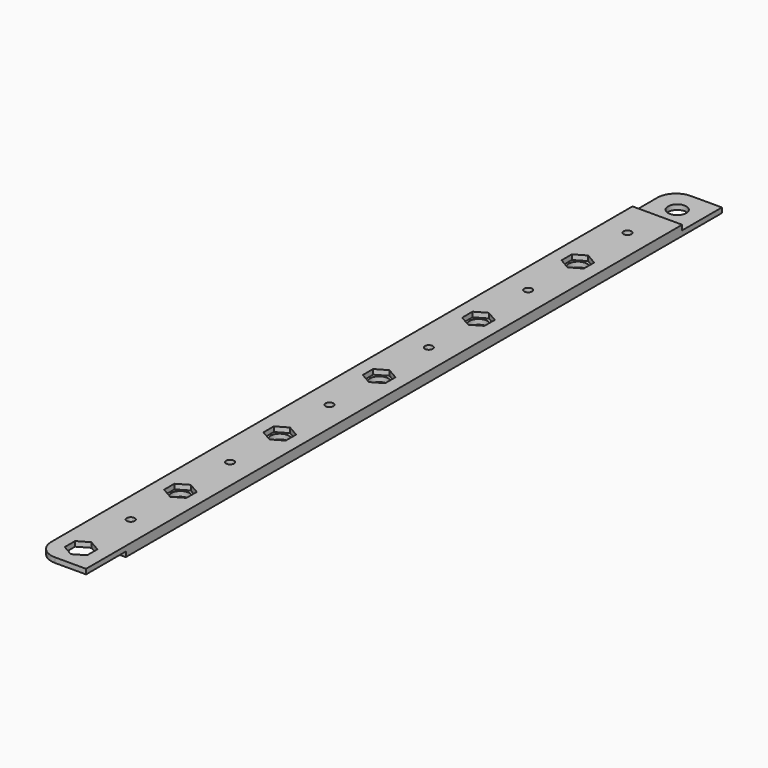
from build123d import *

# Parameters (mm, degrees)
F0_W     = 20
F0_H     = 280
F0_R     = 1.5875
F0_R_2   = 3.675
F1_DEPTH = 2
F2_DEPTH = 2


with BuildPart() as f1:
    # F0 (on Top) → F1 (new body)
    with BuildSketch(Plane.XY):
        Rectangle(F0_W, F0_H)
        with Locations((0, -125)):
            Circle(F0_R, mode=Mode.SUBTRACT)
        Polygon((0, -105.196152), (-4.5, -102.598076), (-4.5, -97.401924), (0, -94.803848), (4.5, -97.401924), (4.5, -102.598076), align=None, mode=Mode.SUBTRACT)
        with Locations((0, -75)):
            Circle(F0_R, mode=Mode.SUBTRACT)
        Polygon((0, -55.196152), (-4.5, -52.598076), (-4.5, -47.401924), (0, -44.803848), (4.5, -47.401924), (4.5, -52.598076), align=None, mode=Mode.SUBTRACT)
        with Locations((0, -25)):
            Circle(F0_R, mode=Mode.SUBTRACT)
        Polygon((0, -5.196152), (-4.5, -2.598076), (-4.5, 2.598076), (0, 5.196152), (4.5, 2.598076), (4.5, -2.598076), align=None, mode=Mode.SUBTRACT)
        with Locations((0, 25)):
            Circle(F0_R, mode=Mode.SUBTRACT)
        Polygon((0, 44.803848), (-4.5, 47.401924), (-4.5, 52.598076), (0, 55.196152), (4.5, 52.598076), (4.5, 47.401924), align=None, mode=Mode.SUBTRACT)
        with Locations((0, 75)):
            Circle(F0_R, mode=Mode.SUBTRACT)
        Polygon((0, 94.803848), (-4.5, 97.401924), (-4.5, 102.598076), (0, 105.196152), (4.5, 102.598076), (4.5, 97.401924), align=None, mode=Mode.SUBTRACT)
        with Locations((0, 125)):
            Circle(F0_R, mode=Mode.SUBTRACT)
        with BuildLine():
            Line((10, 140), (10, 160))
            Line((10, 160), (-2.5, 160))
            ThreePointArc((-2.5, 160), (-7.803301, 157.803301), (-10, 152.5))
            Line((-10, 152.5), (-10, 140))
            Line((-10, 140), (10, 140))
        make_face()
        Polygon((0, 144.803848), (-4.5, 147.401924), (-4.5, 152.598076), (0, 155.196152), (4.5, 152.598076), (4.5, 147.401924), align=None, mode=Mode.SUBTRACT)
        Polygon((-4.5, -97.401924), (-4.5, -102.598076), (0, -105.196152), (4.5, -102.598076), (4.5, -97.401924), (0, -94.803848), align=None)
        with Locations((0, -100)):
            Circle(F0_R_2, mode=Mode.SUBTRACT)
        Polygon((-4.5, -47.401924), (-4.5, -52.598076), (0, -55.196152), (4.5, -52.598076), (4.5, -47.401924), (0, -44.803848), align=None)
        with Locations((0, -50)):
            Circle(F0_R_2, mode=Mode.SUBTRACT)
        Polygon((-4.5, 2.598076), (-4.5, -2.598076), (0, -5.196152), (4.5, -2.598076), (4.5, 2.598076), (0, 5.196152), align=None)
        Circle(F0_R_2, mode=Mode.SUBTRACT)
        Polygon((-4.5, 52.598076), (-4.5, 47.401924), (0, 44.803848), (4.5, 47.401924), (4.5, 52.598076), (0, 55.196152), align=None)
        with Locations((0, 50)):
            Circle(F0_R_2, mode=Mode.SUBTRACT)
        Polygon((-4.5, 102.598076), (-4.5, 97.401924), (0, 94.803848), (4.5, 97.401924), (4.5, 102.598076), (0, 105.196152), align=None)
        with Locations((0, 100)):
            Circle(F0_R_2, mode=Mode.SUBTRACT)
        Polygon((-4.5, 152.598076), (-4.5, 147.401924), (0, 144.803848), (4.5, 147.401924), (4.5, 152.598076), (0, 155.196152), align=None)
        with Locations((0, 150)):
            Circle(F0_R_2, mode=Mode.SUBTRACT)
    extrude(amount=-F1_DEPTH)

    # F0 (on Top) → F2 (join)
    with BuildSketch(Plane.XY):
        Rectangle(F0_W, F0_H)
        with Locations((0, -125)):
            Circle(F0_R, mode=Mode.SUBTRACT)
        Polygon((0, -105.196152), (-4.5, -102.598076), (-4.5, -97.401924), (0, -94.803848), (4.5, -97.401924), (4.5, -102.598076), align=None, mode=Mode.SUBTRACT)
        with Locations((0, -75)):
            Circle(F0_R, mode=Mode.SUBTRACT)
        Polygon((0, -55.196152), (-4.5, -52.598076), (-4.5, -47.401924), (0, -44.803848), (4.5, -47.401924), (4.5, -52.598076), align=None, mode=Mode.SUBTRACT)
        with Locations((0, -25)):
            Circle(F0_R, mode=Mode.SUBTRACT)
        Polygon((0, -5.196152), (-4.5, -2.598076), (-4.5, 2.598076), (0, 5.196152), (4.5, 2.598076), (4.5, -2.598076), align=None, mode=Mode.SUBTRACT)
        with Locations((0, 25)):
            Circle(F0_R, mode=Mode.SUBTRACT)
        Polygon((0, 44.803848), (-4.5, 47.401924), (-4.5, 52.598076), (0, 55.196152), (4.5, 52.598076), (4.5, 47.401924), align=None, mode=Mode.SUBTRACT)
        with Locations((0, 75)):
            Circle(F0_R, mode=Mode.SUBTRACT)
        Polygon((0, 94.803848), (-4.5, 97.401924), (-4.5, 102.598076), (0, 105.196152), (4.5, 102.598076), (4.5, 97.401924), align=None, mode=Mode.SUBTRACT)
        with Locations((0, 125)):
            Circle(F0_R, mode=Mode.SUBTRACT)
        with BuildLine():
            Line((10, -160), (10, -140))
            Line((10, -140), (-10, -140))
            Line((-10, -140), (-10, -152.5))
            ThreePointArc((-10, -152.5), (-7.803301, -157.803301), (-2.5, -160))
            Line((-2.5, -160), (10, -160))
        make_face()
        Polygon((0, -155.196152), (-4.5, -152.598076), (-4.5, -147.401924), (0, -144.803848), (4.5, -147.401924), (4.5, -152.598076), align=None, mode=Mode.SUBTRACT)
    extrude(amount=F2_DEPTH)


solid = f1.part
